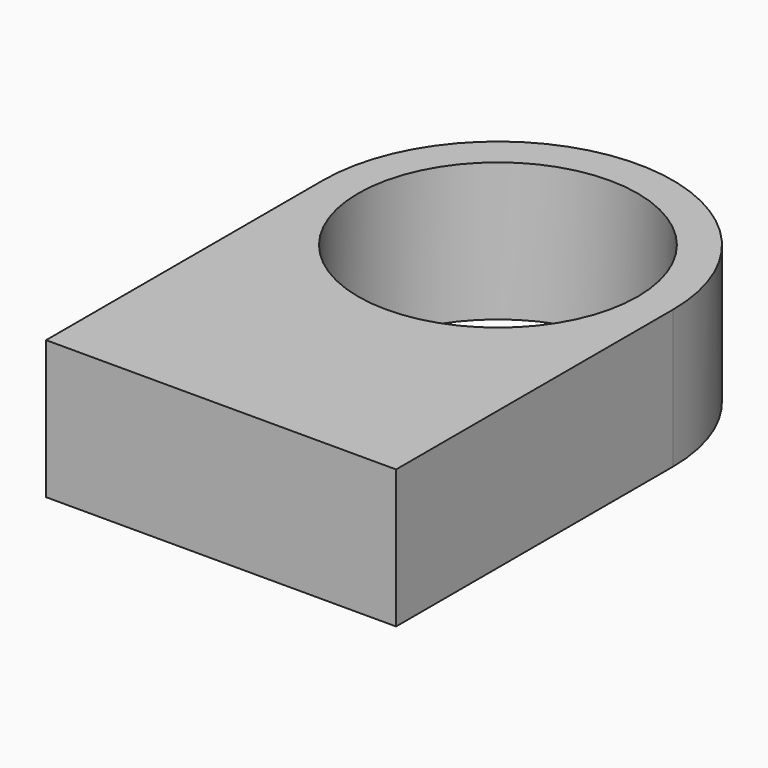
from build123d import *

# Parameters (mm, degrees)
F0_R     = 25.269485
F1_DEPTH = 25


with BuildPart() as f1:
    # F0 (on Top) → F1 (new body)
    with BuildSketch(Plane.XY):
        with BuildLine():
            Line((-28.430892, 24.148416), (-28.430892, -38.423341))
            Line((-28.430892, -38.423341), (34.85461, -38.423341))
            Line((34.85461, -38.423341), (34.85461, 24.148416))
            ThreePointArc((34.85461, 24.148416), (3.211859, 55.791167), (-28.430892, 24.148416))
        make_face()
        with Locations((3.211859, 24.148416)):
            Circle(F0_R, mode=Mode.SUBTRACT)
    extrude(amount=F1_DEPTH)


solid = f1.part
